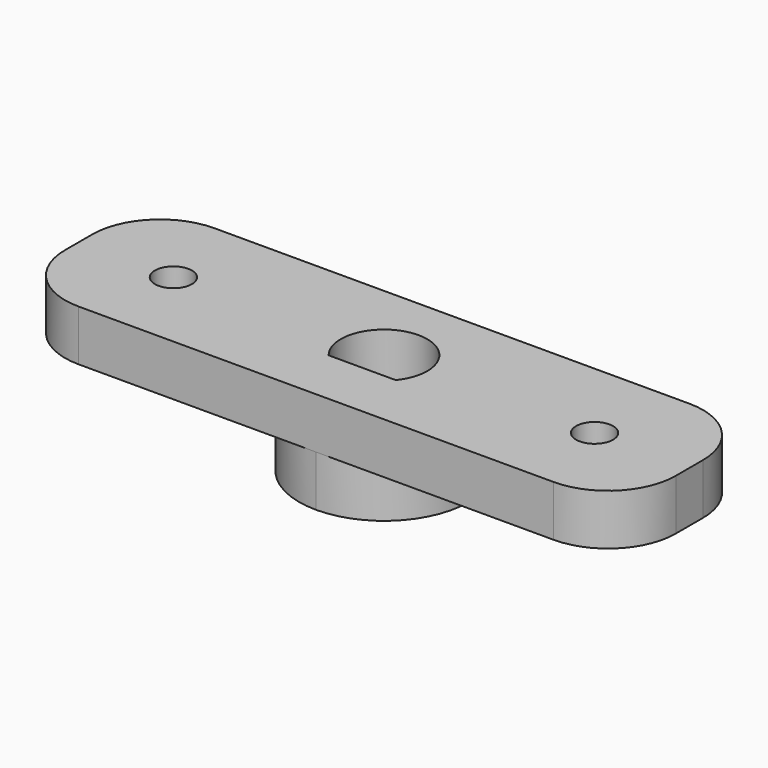
from build123d import *

# Parameters (mm, degrees)
F0_W     = 45.72
F0_H     = 12.7
F0_R     = 1.3843
F1_DEPTH = 3.81
F2_R     = 5.08
F4_DEPTH = 3.81
F5_DEPTH = 12.7
F6_SIZE  = 0.508


with BuildPart() as f1:
    # F0 (on Top) → F1 (new body)
    with BuildSketch(Plane.XY):
        with Locations((0, 6.35)):
            Rectangle(F0_W, F0_H)
        with Locations((-15.76197, 6.35)):
            Circle(F0_R, mode=Mode.SUBTRACT)
        with BuildLine():
            ThreePointArc((-2.511391, 4.3053), (-1.085067, 9.401313), (3.2385, 6.35))
            ThreePointArc((3.2385, 6.35), (3.051313, 5.264933), (2.511391, 4.3053))
            ThreePointArc((2.511391, 4.3053), (0, 3.1115), (-2.511391, 4.3053))
        make_face(mode=Mode.SUBTRACT)
        with Locations((15.76197, 6.35)):
            Circle(F0_R, mode=Mode.SUBTRACT)
        with BuildLine():
            Line((2.511391, 4.3053), (-2.511391, 4.3053))
            ThreePointArc((-2.511391, 4.3053), (0, 3.1115), (2.511391, 4.3053))
        make_face()
        with BuildLine():
            ThreePointArc((2.511391, 4.3053), (3.051313, 5.264933), (3.2385, 6.35))
            ThreePointArc((3.2385, 6.35), (-1.085067, 9.401313), (-2.511391, 4.3053))
            Line((-2.511391, 4.3053), (2.511391, 4.3053))
        make_face()
    extrude(amount=F1_DEPTH)

    # F2
    f2_edges = [f1.edges().sort_by_distance(p)[0] for p in [
        (-22.86, 12.7, 1.905),
        (-22.86, 0, 1.905),
        (22.86, 12.7, 1.905),
        (22.86, 0, 1.905),
    ]]
    fillet(f2_edges, radius=F2_R)

    # F3 (on face) → F4 (join)
    with BuildSketch(Plane(origin=(0, 0, 0), x_dir=(1, 0, 0), z_dir=(0, 0, -1))):
        with BuildLine():
            ThreePointArc((0, -12.7), (4.490128, -10.840128), (6.35, -6.35))
            ThreePointArc((6.35, -6.35), (4.490128, -1.859872), (0, 0))
            ThreePointArc((0, 0), (-6.35, -6.35), (0, -12.7))
        make_face()
    extrude(amount=F4_DEPTH)

    # F0 (on Top) → F5 (cut, symmetric)
    with BuildSketch(Plane.XY):
        with BuildLine():
            ThreePointArc((2.511391, 4.3053), (3.051313, 5.264933), (3.2385, 6.35))
            ThreePointArc((3.2385, 6.35), (-1.085067, 9.401313), (-2.511391, 4.3053))
            Line((-2.511391, 4.3053), (2.511391, 4.3053))
        make_face()
    extrude(amount=F5_DEPTH, both=True, mode=Mode.SUBTRACT)

    # F6
    f6_edges = [f1.edges().sort_by_distance(p)[0] for p in [
        (0, 4.3053, -3.81),
        (0, 9.5885, -3.81),
    ]]
    chamfer(f6_edges, length=F6_SIZE)


solid = f1.part
